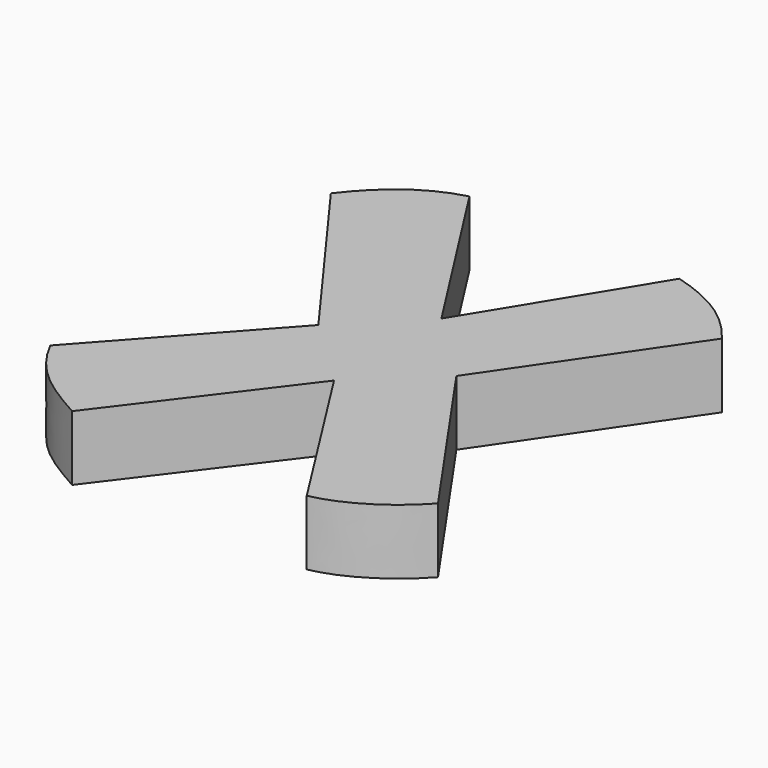
from build123d import *

# Parameters (mm, degrees)
F1_DEPTH = 2


with BuildPart() as f1:
    # F0 (on Top) → F1 (new body)
    with BuildSketch(Plane.XY):
        with BuildLine():
            Line((2.253182, -0.082452), (6.020803, 5.427715))
            add(Edge.make_bspline(
                [(6.020803, 5.427715), (5.339074, 6.318993), (4.550436, 6.864072), (3.275786, 7.221148)],
                knots=[0, 0, 0, 0, 3.278951, 3.278951, 3.278951, 3.278951], degree=3))
            Line((3.275786, 7.221148), (0.104206, 2.028183))
            Line((0.104206, 2.028183), (-3.342372, 7.415644))
            add(Edge.make_bspline(
                [(-3.342372, 7.415644), (-4.499944, 7.110265), (-5.35287, 6.368143), (-6.044617, 5.458277)],
                knots=[0, 0, 0, 0, 3.336677, 3.336677, 3.336677, 3.336677], degree=3))
            Line((-6.044617, 5.458277), (-1.9962, -0.082452))
            Line((-1.9962, -0.082452), (-6.362787, -4.938674))
            add(Edge.make_bspline(
                [(-6.362787, -4.938674), (-5.736744, -6.174407), (-4.890914, -6.678114), (-3.816444, -7.283751)],
                knots=[0, 0, 0, 0, 3.461683, 3.461683, 3.461683, 3.461683], degree=3))
            Line((-3.816444, -7.283751), (0.104206, -2.104242))
            Line((0.104206, -2.104242), (3.337966, -7.196694))
            add(Edge.make_bspline(
                [(3.337966, -7.196694), (4.108876, -7.054218), (5.195535, -6.488717), (6.052935, -5.540066)],
                knots=[0, 0, 0, 0, 3.180482, 3.180482, 3.180482, 3.180482], degree=3))
            Line((6.052935, -5.540066), (2.253182, -0.082452))
        make_face()
    extrude(amount=F1_DEPTH)


solid = f1.part
